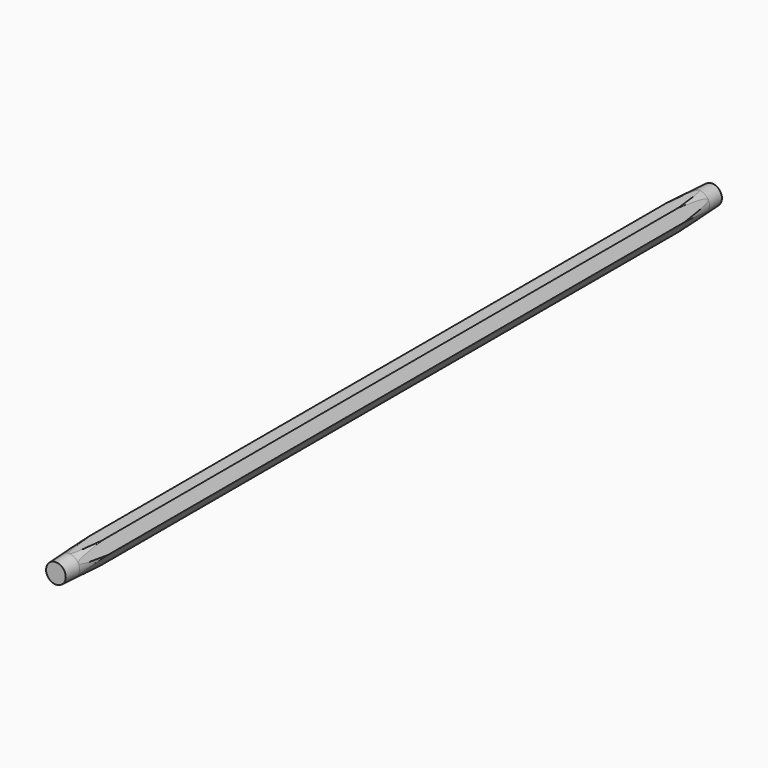
from build123d import *

# Parameters (mm, degrees)
F1_DEPTH = 50


with BuildPart() as f1:
    # F0 (on Front) → F1 (new body)
    with BuildSketch(Plane.XZ):
        Polygon((-0.75, 1.299038), (-1.5, 0), (-0.75, -1.299038), (0.75, -1.299038), (1.5, 0), (0.75, 1.299038), align=None)
    extrude(amount=F1_DEPTH)

    # F2 (on Right) → F3 (revolve, cut)
    with BuildSketch(Plane.YZ):
        Polygon((-51.041506, 1.148426), (-50, 1.2), (-48, 1.299038), (-36.083652, 1.889124), (-51.041506, 1.889124), align=None)
    revolve(axis=Axis((0, 7.533245, 0), (0, 1, 0)), mode=Mode.SUBTRACT)

    # F4: F1 across plane


with BuildPart() as f1_1:
    add(f1.part)
    add(f1.part.mirror(Plane.XZ))


solid = f1_1.part
